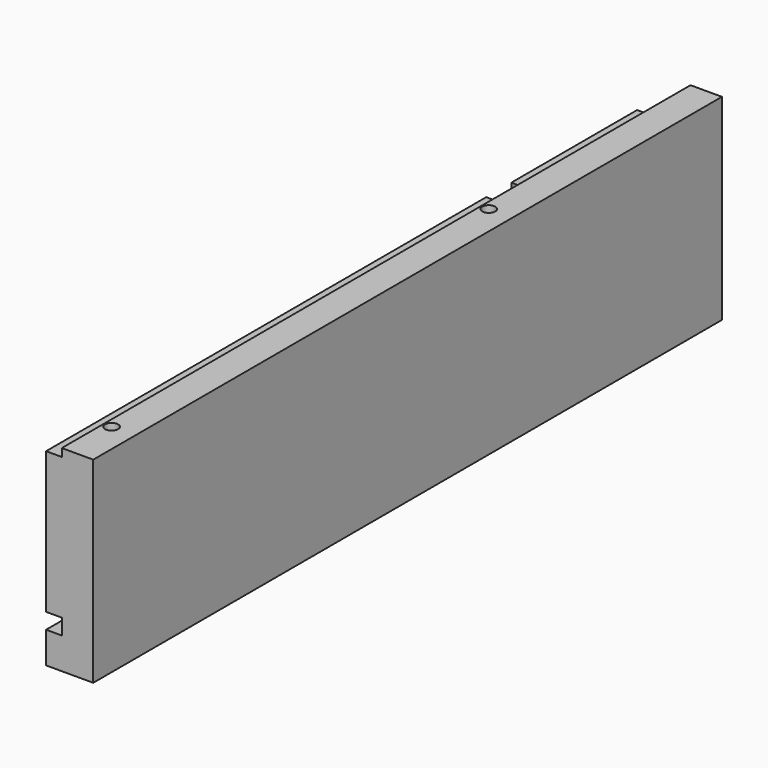
from build123d import *

# Parameters (mm, degrees)
SKETCH025_W             = 75
SKETCH025_H             = 300
PAD008_DEPTH            = 18
SKETCH026_W             = 75
SKETCH026_H             = 18
SKETCH026_W_2           = 57
SKETCH026_H_2           = 12
POCKET017_DEPTH         = 6
SKETCH027_W             = 6
SKETCH027_H             = 6
SKETCH027_W_2           = 3
POCKET018_DEPTH         = 300
SKETCH032_R             = 2.5
POCKET021_DEPTH         = 75
BODY009_PLACEMENT_ANGLE = 90


with BuildPart() as part:
    # Sketch025 → Pad008 (new body)
    with BuildSketch(Plane.XY):
        with Locations((37.5, 150)):
            Rectangle(SKETCH025_W, SKETCH025_H)
    extrude(amount=PAD008_DEPTH)

    # Sketch026 (on Face6 of Pad008) → Pocket017 (cut)
    with BuildSketch(Plane.XY.offset(18)):
        with Locations((37.5, 291)):
            Rectangle(SKETCH026_W, SKETCH026_H)
        with Locations((46.5, 216)):
            Rectangle(SKETCH026_W_2, SKETCH026_H_2)
    extrude(amount=-POCKET017_DEPTH, mode=Mode.SUBTRACT)

    # Sketch027 (on Face6 of Pocket017) → Pocket018 (cut)
    with BuildSketch(Plane.XZ):
        with Locations((15, 15)):
            Rectangle(SKETCH027_W, SKETCH027_H)
        with Locations((73.5, 15)):
            Rectangle(SKETCH027_W_2, SKETCH027_H)
    extrude(amount=-POCKET018_DEPTH, mode=Mode.SUBTRACT)

    # Sketch032 (on Face3 of Pocket018) → Pocket021 (cut)
    with BuildSketch(Plane.YZ.offset(75)):
        with Locations((20, 9)):
            Circle(SKETCH032_R)
        with Locations((200, 9)):
            Circle(SKETCH032_R)
    extrude(amount=-POCKET021_DEPTH, mode=Mode.SUBTRACT)


with BuildPart() as part_1:
    # Body009 placement: moved
    add(part.part.moved(Location((131, 0, 0))).rotate(Axis((131, 0, 0), (0, -1, 0)), BODY009_PLACEMENT_ANGLE))


solid = part_1.part
